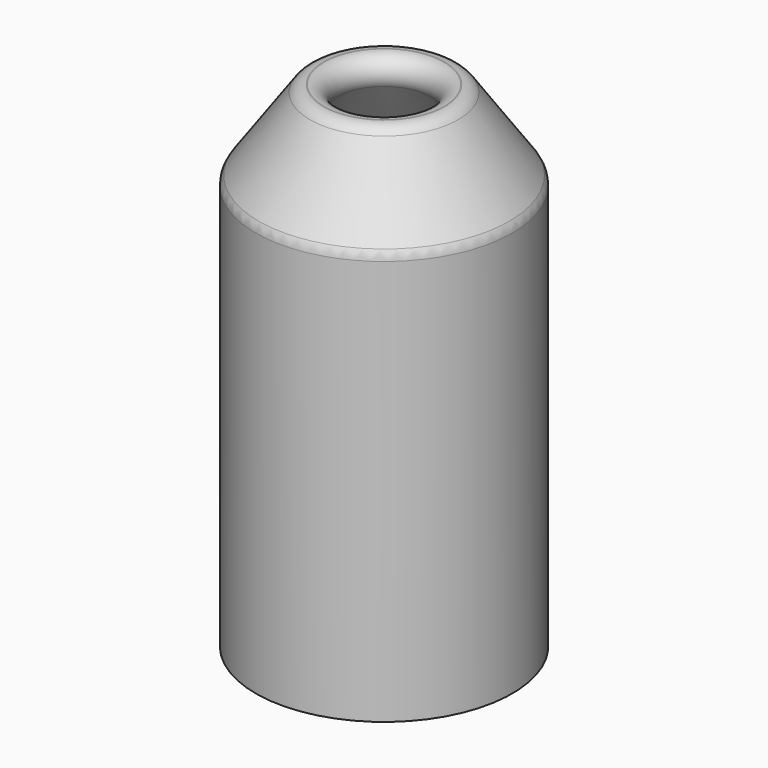
from build123d import *

# Parameters (mm, degrees)
F2_R = 0.8


with BuildPart() as f1:
    # F0 (on Front) → F1 (revolve)
    with BuildSketch(Plane.XZ):
        Polygon((-4.25, 2.833334), (-1.375272, 6.924292), (-3.375272, 6.924292), (-6.25, 2.833334), (-6.25, -17.166666), (-4.25, -17.166666), align=None)
    revolve(axis=Axis((0, 0, -1.357143), (0, 0, -1)))

    # F2
    f2_edges = [f1.edges().sort_by_distance(p)[0] for p in [
        (1.375272, 0, 6.924292),
        (3.375272, 0, 6.924292),
        (6.25, 0, 2.833334),
        (4.25, 0, 2.833334),
        (-2.812636, 0, 4.878813),
    ]]
    fillet(f2_edges, radius=F2_R)


solid = f1.part
